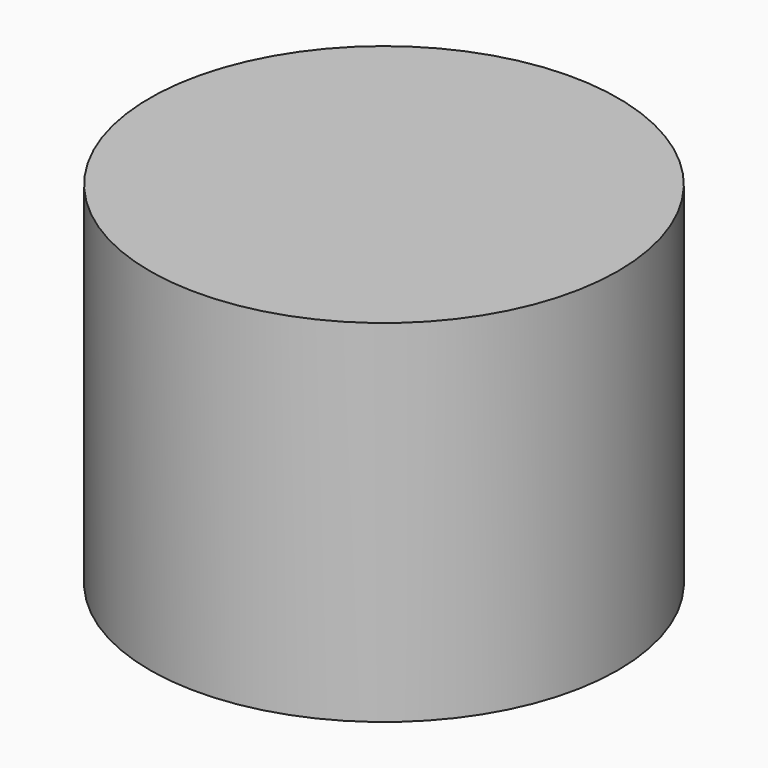
from build123d import *

# Parameters (mm, degrees)
CYLINDER_R        = 50.8
CYLINDER_DEPTH    = 76.2
CYLINDER001_R     = 2
CYLINDER001_DEPTH = 10


with BuildPart() as cylinder:
    # Cylinder → Cylinder (new body)
    with BuildSketch(Plane.XY):
        Circle(CYLINDER_R)
    extrude(amount=CYLINDER_DEPTH)


with BuildPart() as cylinder001:
    # Cylinder001 → Cylinder001 (new body)
    with BuildSketch(Plane.XY):
        Circle(CYLINDER001_R)
    extrude(amount=CYLINDER001_DEPTH)


solid = Compound([cylinder.part, cylinder001.part])
